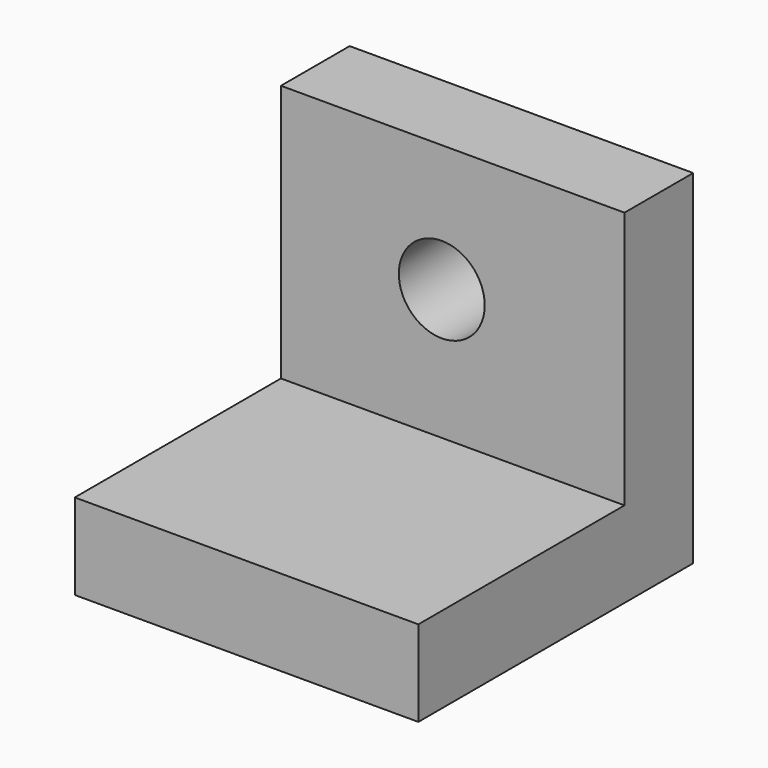
from build123d import *

# Parameters (mm, degrees)
F0_W     = 50.8
F0_H     = 12.7
F1_DEPTH = 50.8
F0_H_2   = 38.1
F2_DEPTH = 12.7
F3_R     = 6.35
F4_DEPTH = 18.574747


with BuildPart() as f1:
    # F0 (on Top) → F1 (new body)
    with BuildSketch(Plane.XY):
        with Locations((-23.495001, 12.223747)):
            Rectangle(F0_W, F0_H)
    extrude(amount=F1_DEPTH)

    # F0 (on Top) → F2 (join)
    with BuildSketch(Plane.XY):
        with Locations((-23.495001, 12.223747)):
            Rectangle(F0_W, F0_H)
        with Locations((-23.495001, -13.176253)):
            Rectangle(F0_W, F0_H_2)
    extrude(amount=F2_DEPTH)

    # F3 (on Front) → F4 (cut, through all)
    with BuildSketch(Plane.XZ):
        with Locations((-25.114251, 32.004002)):
            Circle(F3_R)
    extrude(amount=-F4_DEPTH, mode=Mode.SUBTRACT)


solid = f1.part
